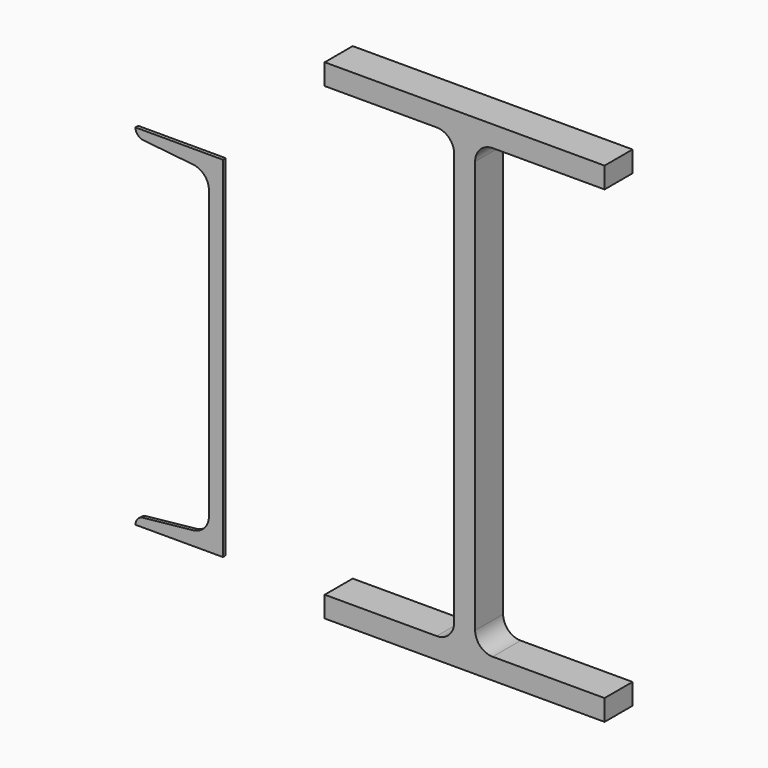
from build123d import *

# Parameters (mm, degrees)
F1_DEPTH = 25.4
F3_DEPTH = 2.54


with BuildPart() as f1:
    # F0 (on Front) → F1 (new body)
    with BuildSketch(Plane.XZ):
        with BuildLine():
            Line((-101.6, 15.24), (-101.6, 0))
            Line((-101.6, 0), (0, 0))
            Line((0, 0), (101.6, 0))
            Line((101.6, 0), (101.6, 15.24))
            Line((101.6, 15.24), (20.32, 15.24))
            ThreePointArc((20.32, 15.24), (11.339744, 18.959744), (7.62, 27.94))
            Line((7.62, 27.94), (7.62, 327.66))
            ThreePointArc((7.62, 327.66), (11.339744, 336.640256), (20.32, 340.36))
            Line((20.32, 340.36), (101.6, 340.36))
            Line((101.6, 340.36), (101.6, 355.6))
            Line((101.6, 355.6), (0, 355.6))
            Line((0, 355.6), (-101.6, 355.6))
            Line((-101.6, 355.6), (-101.6, 340.36))
            Line((-101.6, 340.36), (-20.32, 340.36))
            ThreePointArc((-20.32, 340.36), (-11.339744, 336.640256), (-7.62, 327.66))
            Line((-7.62, 327.66), (-7.62, 27.94))
            ThreePointArc((-7.62, 27.94), (-11.339744, 18.959744), (-20.32, 15.24))
            Line((-20.32, 15.24), (-101.6, 15.24))
        make_face()
    extrude(amount=F1_DEPTH)


with BuildPart() as f3:
    # F2 (on Front) → F3 (new body)
    with BuildSketch(Plane.XZ):
        with BuildLine():
            Line((-193.830329, 0), (-193.830329, 127))
            Line((-193.830329, 127), (-203.990329, 127))
            Line((-203.990329, 127), (-203.990329, 22.758957))
            ThreePointArc((-203.990329, 22.758957), (-207.252389, 14.260998), (-215.362817, 10.128529))
            Line((-215.362817, 10.128529), (-251.644084, 6.315214))
            ThreePointArc((-251.644084, 6.315214), (-255.699298, 4.248979), (-257.330329, 0))
            Line((-257.330329, 0), (-193.830329, 0))
        make_face()
        with BuildLine():
            Line((-203.990329, 127), (-193.830329, 127))
            Line((-193.830329, 127), (-193.830329, 254))
            Line((-193.830329, 254), (-257.330329, 254))
            ThreePointArc((-257.330329, 254), (-255.699298, 249.751021), (-251.644084, 247.684786))
            Line((-251.644084, 247.684786), (-215.362817, 243.871471))
            ThreePointArc((-215.362817, 243.871471), (-207.252389, 239.739002), (-203.990329, 231.241043))
            Line((-203.990329, 231.241043), (-203.990329, 127))
        make_face()
    extrude(amount=F3_DEPTH)


solid = Compound([f1.part, f3.part])
